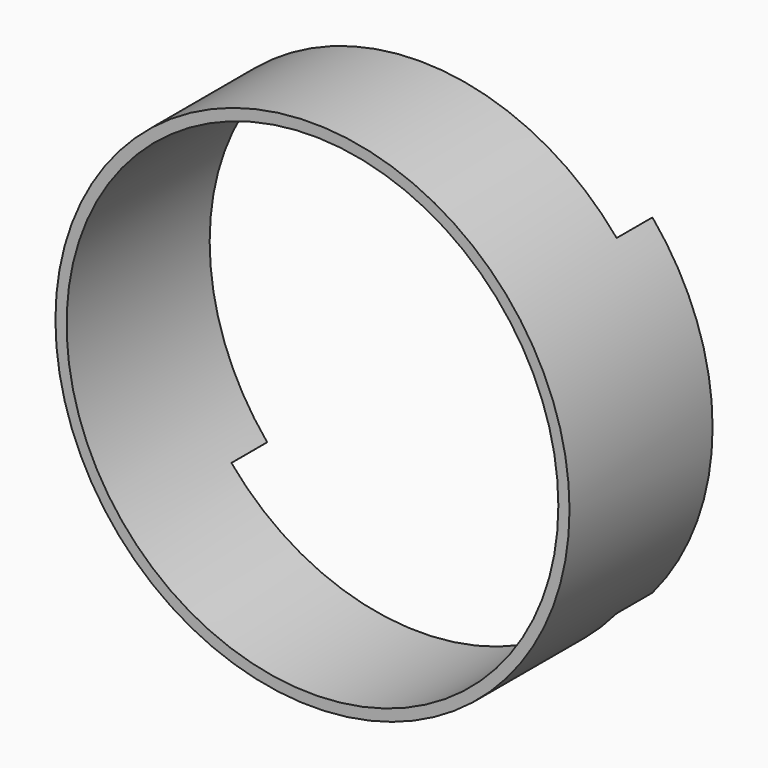
from build123d import *

# Parameters (mm, degrees)
F0_R     = 575
F0_R_2   = 550
F1_DEPTH = 400
F4_DEPTH = 100


with BuildPart() as f1:
    # F0 (on Front) → F1 (new body)
    with BuildSketch(Plane.XZ):
        Circle(F0_R)
        Circle(F0_R_2, mode=Mode.SUBTRACT)
    extrude(amount=F1_DEPTH)

    # F3 (on face) → F4 (cut)
    with BuildSketch(Plane.XZ):
        with BuildLine():
            Line((-421.324444, 353.533185), (0, 0))
            Line((0, 0), (421.324444, 353.533185))
            ThreePointArc((421.324444, 353.533185), (0, 550), (-421.324444, 353.533185))
        make_face()
        with BuildLine():
            Line((-440.475555, 369.602876), (-421.324444, 353.533185))
            ThreePointArc((-421.324444, 353.533185), (0, 550), (421.324444, 353.533185))
            Line((421.324444, 353.533185), (440.475555, 369.602876))
            ThreePointArc((440.475555, 369.602876), (0, 575), (-440.475555, 369.602876))
        make_face()
        with BuildLine():
            ThreePointArc((421.324444, -353.533185), (0, -550), (-421.324444, -353.533185))
            Line((-421.324444, -353.533185), (-440.475555, -369.602876))
            ThreePointArc((-440.475555, -369.602876), (0, -575), (440.475555, -369.602876))
            Line((440.475555, -369.602876), (421.324444, -353.533185))
        make_face()
    extrude(amount=F4_DEPTH, mode=Mode.SUBTRACT)


solid = f1.part
